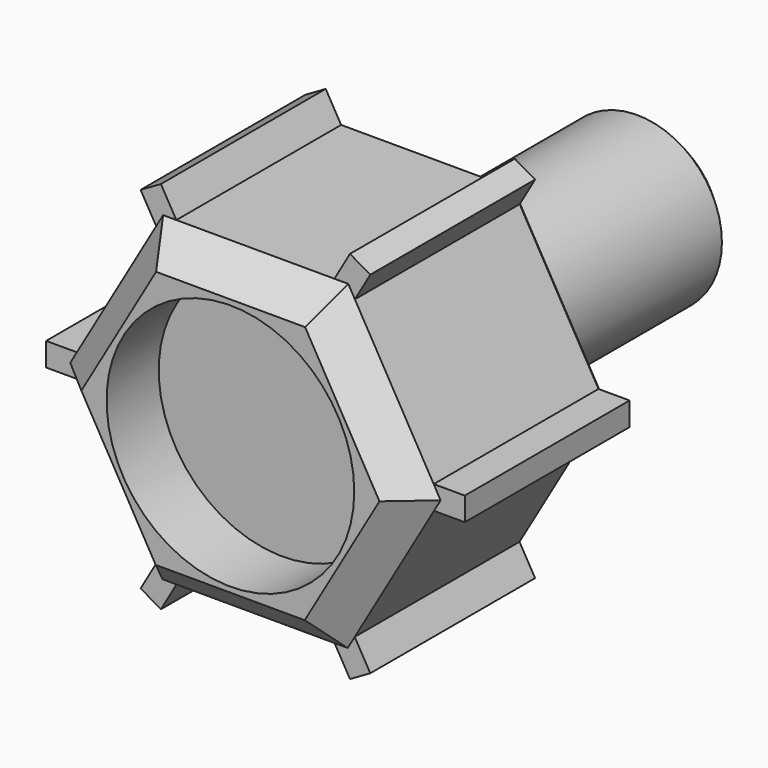
from build123d import *

# Parameters (mm, degrees)
F1_DEPTH  = 25.4
F4_SIZE   = 2.286
F5_SIZE   = 3.048
F3_W      = 3.048
F3_H      = 2.286
F6_DEPTH  = 20.066
F7_R      = 8.255
F9_DEPTH  = 25.4
F8_R      = 2.413
F10_DEPTH = 25.4
F11_SIZE  = 1.27
F13_R     = 12.065
F14_DEPTH = 6.35


with BuildPart() as f1:
    # F0 (on Front) → F1 (new body)
    with BuildSketch(Plane.XZ):
        Polygon((18.037553, -0.029708), (9.044504, 15.606125), (-8.993048, 15.635833), (-18.037553, 0.029708), (-9.044504, -15.606125), (8.993048, -15.635833), align=None)
    extrude(amount=F1_DEPTH)

    # F4
    f4_edges = [f1.edges().sort_by_distance(p)[0] for p in [
        (13.541028, 0, 7.788208),
        (0.025728, 0, 15.620979),
        (-13.515301, 0, 7.83277),
        (-13.541028, 0, -7.788208),
        (-0.025728, 0, -15.620979),
        (13.515301, 0, -7.83277),
    ]]
    chamfer(f4_edges, length=F4_SIZE)

    # F5
    f5_edges = [f1.edges().sort_by_distance(p)[0] for p in [
        (13.541028, -25.4, 7.788208),
        (0.025728, -25.4, 15.620979),
        (-13.515301, -25.4, 7.83277),
        (-13.541028, -25.4, -7.788208),
        (-0.025728, -25.4, -15.620979),
        (13.515301, -25.4, -7.83277),
    ]]
    chamfer(f5_edges, length=F5_SIZE)

    # F3 (on offset) → F6 (join)
    with BuildSketch(Plane.XZ.offset(2.286)):
        with Locations((18.87098, 0)):
            Rectangle(F3_W, F3_H)
        Polygon((9.207623, 18.234071), (7.683623, 15.594425), (9.663357, 14.451425), (11.187357, 17.091071), align=None)
        Polygon((-11.187357, 17.091071), (-9.663357, 14.451425), (-7.683623, 15.594425), (-9.207623, 18.234071), align=None)
        with Locations((-18.87098, 0)):
            Rectangle(F3_W, F3_H)
        Polygon((-9.207623, -18.234071), (-7.683623, -15.594425), (-9.663357, -14.451425), (-11.187357, -17.091071), align=None)
        Polygon((11.187357, -17.091071), (9.663357, -14.451425), (7.683623, -15.594425), (9.207623, -18.234071), align=None)
    extrude(amount=F6_DEPTH)

    # F7 (on Front) → F9 (join)
    with BuildSketch(Plane.XZ):
        Circle(F7_R)
    extrude(amount=-F9_DEPTH)

    # F8 (on Front) → F10 (cut)
    with BuildSketch(Plane.XZ):
        Circle(F8_R)
    extrude(amount=-F10_DEPTH, mode=Mode.SUBTRACT)

    # F11
    f11_edges = [f1.edges().sort_by_distance(p)[0] for p in [
        (8.255, 12.7, 0),
        (-8.255, 0, 0),
        (-8.255, 25.4, 0),
    ]]
    chamfer(f11_edges, length=F11_SIZE)

    # F13 (on offset) → F14 (cut)
    with BuildSketch(Plane.XZ.offset(25.4)):
        Circle(F13_R)
    extrude(amount=-F14_DEPTH, mode=Mode.SUBTRACT)


solid = f1.part
